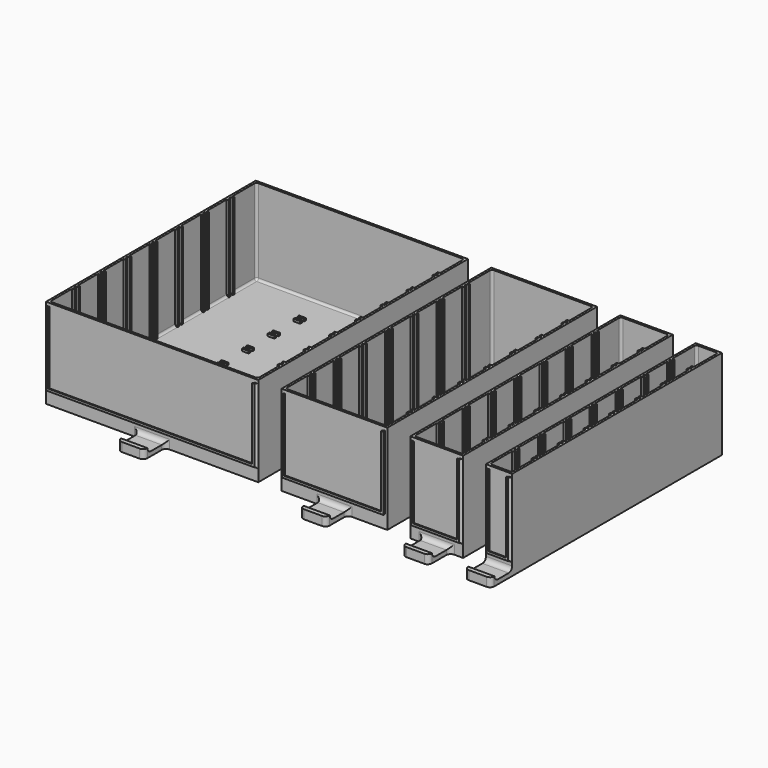
from build123d import *

# Parameters (mm, degrees)
BOX009_W         = 3
BOX009_H         = 3.2
BOX009_DEPTH     = 1
ARRAY001_X_COUNT = 2
ARRAY001_X_PITCH = 30.5
BOX008_W         = 91.5
BOX008_H         = 3.2
BOX008_DEPTH     = 38.5
BOX007_W         = 93.5
BOX007_H         = 1.2
BOX007_DEPTH     = 38.5
BOX006_W         = 93.5
BOX006_H         = 3.2
BOX006_DEPTH     = 38.5
FILLET005_R      = 1
ARRAY002_Y_COUNT = 7
ARRAY002_Y_PITCH = 14.5
BOX004_W         = 2
BOX004_H         = 110
BOX004_DEPTH     = 1
ARRAY_X_COUNT    = 8
ARRAY_X_PITCH    = 12
BOX001_W         = 93.5
BOX001_H         = 116
BOX001_DEPTH     = 39.5
FILLET_R         = 1
BOX_W            = 95.5
BOX_H            = 118
BOX_DEPTH        = 40.5
BOX013_W         = 11.8
BOX013_H         = 12
BOX013_DEPTH     = 2
BOX015_W         = 11.8
BOX015_H         = 2
BOX015_DEPTH     = 2
FILLET006_R      = 1.9
FILLET007_R      = 2
BOX012_W         = 91.5
BOX012_H         = 0.5
BOX012_DEPTH     = 32
BOX011_W         = 92.5
BOX011_H         = 0.5
BOX011_DEPTH     = 32.5
BOX010_W         = 93.5
BOX010_H         = 1
BOX010_DEPTH     = 33
FILLET008_R      = 0.9
BOX027_W         = 11.8
BOX027_H         = 2
BOX027_DEPTH     = 2
BOX026_W         = 11.8
BOX026_H         = 12
BOX026_DEPTH     = 2
FILLET011_R      = 1.9
BOX018_W         = 2
BOX018_H         = 110
BOX018_DEPTH     = 1
ARRAY003_X_COUNT = 4
ARRAY003_X_PITCH = 12
BOX017_W         = 45.6
BOX017_H         = 116
BOX017_DEPTH     = 39.5
FILLET009_R      = 1
BOX016_W         = 47.6
BOX016_H         = 118
BOX016_DEPTH     = 40.5
BOX022_W         = 3
BOX022_H         = 3.2
BOX022_DEPTH     = 1
BOX021_W         = 43.6
BOX021_H         = 3.2
BOX021_DEPTH     = 38.5
BOX020_W         = 45.6
BOX020_H         = 1.2
BOX020_DEPTH     = 38.5
BOX019_W         = 45.6
BOX019_H         = 3.2
BOX019_DEPTH     = 38.5
FILLET010_R      = 1
ARRAY004_Y_COUNT = 7
ARRAY004_Y_PITCH = 14.5
FILLET012_R      = 2
BOX025_W         = 43.6
BOX025_H         = 0.5
BOX025_DEPTH     = 32
BOX024_W         = 44.6
BOX024_H         = 0.5
BOX024_DEPTH     = 32.5
BOX023_W         = 45.6
BOX023_H         = 1
BOX023_DEPTH     = 33
BOX037_W         = 11.8
BOX037_H         = 12
BOX037_DEPTH     = 2
BOX014_W         = 11.8
BOX014_H         = 2
BOX014_DEPTH     = 2
FILLET016_R      = 1.9
BOX031_W         = 21.7
BOX031_H         = 1
BOX031_DEPTH     = 38.5
BOX033_W         = 19.7
BOX033_H         = 3
BOX033_DEPTH     = 38.5
BOX032_W         = 21.7
BOX032_H         = 3
BOX032_DEPTH     = 38.5
FILLET015_R      = 1
ARRAY006_Y_COUNT = 7
ARRAY006_Y_PITCH = 14.5
BOX030_W         = 2
BOX030_H         = 110
BOX030_DEPTH     = 1
ARRAY005_X_COUNT = 2
ARRAY005_X_PITCH = 12
BOX029_W         = 21.7
BOX029_H         = 116
BOX029_DEPTH     = 39.5
FILLET014_R      = 1
BOX028_W         = 23.7
BOX028_H         = 118
BOX028_DEPTH     = 40.5
FILLET017_R      = 2
BOX036_W         = 19.7
BOX036_H         = 0.5
BOX036_DEPTH     = 32
BOX035_W         = 20.7
BOX035_H         = 0.5
BOX035_DEPTH     = 32.5
BOX034_W         = 21.7
BOX034_H         = 1
BOX034_DEPTH     = 33
FILLET018_R      = 0.9
BOX043_W         = 7.8
BOX043_H         = 3
BOX043_DEPTH     = 38.5
BOX042_W         = 9.8
BOX042_H         = 1
BOX042_DEPTH     = 38.5
BOX041_W         = 9.8
BOX041_H         = 3
BOX041_DEPTH     = 38.5
FILLET020_R      = 1
ARRAY007_Y_COUNT = 7
ARRAY007_Y_PITCH = 14.5
BOX040_W         = 2
BOX040_H         = 110
BOX040_DEPTH     = 1
BOX039_W         = 9.8
BOX039_H         = 116
BOX039_DEPTH     = 38.5
FILLET019_R      = 1
BOX038_W         = 11.8
BOX038_H         = 118
BOX038_DEPTH     = 40.5
BOX047_W         = 11.8
BOX047_H         = 12
BOX047_DEPTH     = 2
BOX048_W         = 11.8
BOX048_H         = 2
BOX048_DEPTH     = 2
FILLET021_R      = 1.9
FILLET022_R      = 2
BOX046_W         = 7.8
BOX046_H         = 0.5
BOX046_DEPTH     = 32
BOX045_W         = 8.8
BOX045_H         = 0.5
BOX045_DEPTH     = 32.5
BOX044_W         = 9.8
BOX044_H         = 1
BOX044_DEPTH     = 33
FILLET023_R      = 0.9


with BuildPart() as bottom_separator_gap_array:
    # Box009 → Box009 (new body)
    with BuildSketch(Plane(origin=(31, 13.4, 2), x_dir=(1, 0, 0), z_dir=(0, 0, 1))):
        with Locations((1.5, 1.6)):
            Rectangle(BOX009_W, BOX009_H)
    extrude(amount=BOX009_DEPTH)

    # Array001 X: Bottom Separator Gap Array ×2


with BuildPart() as bottom_separator_gap_array_1:
    add(bottom_separator_gap_array.part)
    with Locations(*[(i * ARRAY001_X_PITCH, 0, 0) for i in range(1, ARRAY001_X_COUNT)]):
        add(bottom_separator_gap_array.part)


with BuildPart() as separator_holder_gap:
    # Box008 → Box008 (new body)
    with BuildSketch(Plane(origin=(2, 13.4, 2), x_dir=(1, 0, 0), z_dir=(0, 0, 1))):
        with Locations((45.75, 1.6)):
            Rectangle(BOX008_W, BOX008_H)
    extrude(amount=BOX008_DEPTH)

    # Cut005: cut Bottom Separator Gap Array
    add(bottom_separator_gap_array_1.part, mode=Mode.SUBTRACT)


with BuildPart() as separator_gap:
    # Box007 → Box007 (new body)
    with BuildSketch(Plane(origin=(1, 14.4, 2), x_dir=(1, 0, 0), z_dir=(0, 0, 1))):
        with Locations((46.75, 0.6)):
            Rectangle(BOX007_W, BOX007_H)
    extrude(amount=BOX007_DEPTH)


with BuildPart() as separator_holder_array:
    # Box006 → Box006 (new body)
    with BuildSketch(Plane(origin=(1, 13.4, 2), x_dir=(1, 0, 0), z_dir=(0, 0, 1))):
        with Locations((46.75, 1.6)):
            Rectangle(BOX006_W, BOX006_H)
    extrude(amount=BOX006_DEPTH)

    # Fillet005
    fillet005_edges = [separator_holder_array.edges().sort_by_distance(p)[0] for p in [
        (1, 15, 2),
        (94.5, 15, 2),
    ]]
    fillet(fillet005_edges, radius=FILLET005_R)

    # Cut002: cut Separator Gap
    add(separator_gap.part, mode=Mode.SUBTRACT)

    # Cut006: cut Separator Holder Gap
    add(separator_holder_gap.part, mode=Mode.SUBTRACT)

    # Array002 Y: Separator Holder Array ×7


with BuildPart() as separator_holder_array_1:
    add(separator_holder_array.part)
    with Locations(*[(0, i * ARRAY002_Y_PITCH, 0) for i in range(1, ARRAY002_Y_COUNT)]):
        add(separator_holder_array.part)


with BuildPart() as guide_array:
    # Box004 → Box004 (new body)
    with BuildSketch(Plane(origin=(0, 8, 0), x_dir=(1, 0, 0), z_dir=(0, 0, 1))):
        with Locations((1, 55)):
            Rectangle(BOX004_W, BOX004_H)
    extrude(amount=BOX004_DEPTH)

    # Array X: Guide array ×8


with BuildPart() as guide_array_1:
    add(guide_array.part)
    with Locations(*[(i * ARRAY_X_PITCH, 0, 0) for i in range(1, ARRAY_X_COUNT)]):
        add(guide_array.part)


with BuildPart() as guide_array_2:
    # Array placement: moved
    add(guide_array_1.part.moved(Location((4.75, 0, 0))))


with BuildPart() as fillet_body:
    # Box001 → Box001 (new body)
    with BuildSketch(Plane(origin=(1, 1, 2), x_dir=(1, 0, 0), z_dir=(0, 0, 1))):
        with Locations((46.75, 58)):
            Rectangle(BOX001_W, BOX001_H)
    extrude(amount=BOX001_DEPTH)

    # Fillet
    fillet_edges = [fillet_body.edges().sort_by_distance(p)[0] for p in [
        (1, 1, 21.75),
        (1, 117, 21.75),
        (1, 59, 2),
        (94.5, 1, 21.75),
        (94.5, 117, 21.75),
        (94.5, 59, 2),
        (47.75, 1, 2),
        (47.75, 117, 2),
    ]]
    fillet(fillet_edges, radius=FILLET_R)


with BuildPart() as obj1:
    # Box → Box (new body)
    with BuildSketch(Plane.XY):
        with Locations((47.75, 59)):
            Rectangle(BOX_W, BOX_H)
    extrude(amount=BOX_DEPTH)

    # Cut: cut Fillet body
    add(fillet_body.part, mode=Mode.SUBTRACT)

    # Cut004: cut Guide array
    add(guide_array_2.part, mode=Mode.SUBTRACT)

    # Fusion: union Separator Holder Array
    add(separator_holder_array_1.part)


with BuildPart() as handler_block:
    # Box013 → Box013 (new body)
    with BuildSketch(Plane(origin=(41.85, -12, 0), x_dir=(1, 0, 0), z_dir=(0, 0, 1))):
        with Locations((5.9, 6)):
            Rectangle(BOX013_W, BOX013_H)
    extrude(amount=BOX013_DEPTH)


with BuildPart() as obj2:
    # Box015 → Box015 (new body)
    with BuildSketch(Plane(origin=(41.85, -12, 2), x_dir=(1, 0, 0), z_dir=(0, 0, 1))):
        with Locations((5.9, 1)):
            Rectangle(BOX015_W, BOX015_H)
    extrude(amount=BOX015_DEPTH)

    # Fusion004: union Handler_block
    add(handler_block.part)

    # Fillet006
    fillet006_edges = [obj2.edges().sort_by_distance(p)[0] for p in [
        (41.85, -12, 3),
        (47.75, -10, 2),
        (53.65, -12, 3),
        (41.85, -12, 1),
        (53.65, -12, 1),
    ]]
    fillet(fillet006_edges, radius=FILLET006_R)

    # Fusion005: union obj1
    add(obj1.part)

    # Fillet007
    fillet007_edges = [obj2.edges().sort_by_distance(p)[0] for p in [
        (41.85, 0, 1),
        (53.65, 0, 1),
        (47.75, 0, 2),
    ]]
    fillet(fillet007_edges, radius=FILLET007_R)


with BuildPart() as labelholder_outer_gap:
    # Box012 → Box012 (new body)
    with BuildSketch(Plane(origin=(2, -1, 7), x_dir=(1, 0, 0), z_dir=(0, 0, 1))):
        with Locations((45.75, 0.25)):
            Rectangle(BOX012_W, BOX012_H)
    extrude(amount=BOX012_DEPTH)


with BuildPart() as labelholder_gap:
    # Box011 → Box011 (new body)
    with BuildSketch(Plane(origin=(1.5, -0.5, 6.5), x_dir=(1, 0, 0), z_dir=(0, 0, 1))):
        with Locations((46.25, 0.25)):
            Rectangle(BOX011_W, BOX011_H)
    extrude(amount=BOX011_DEPTH)

    # Fusion003: union LabelHolder_Outer_Gap
    add(labelholder_outer_gap.part)


with BuildPart() as bigdrawer:
    # Box010 → Box010 (new body)
    with BuildSketch(Plane(origin=(1, -1, 6), x_dir=(1, 0, 0), z_dir=(0, 0, 1))):
        with Locations((46.75, 0.5)):
            Rectangle(BOX010_W, BOX010_H)
    extrude(amount=BOX010_DEPTH)

    # Cut007: cut LabelHolder Gap
    add(labelholder_gap.part, mode=Mode.SUBTRACT)

    # Fusion006: union obj2
    add(obj2.part)

    # Fillet008
    fillet008_edges = [bigdrawer.edges().sort_by_distance(p)[0] for p in [
        (94.5, 0, 22.5),
        (1, 0, 22.5),
        (47.75, 0, 6),
    ]]
    fillet(fillet008_edges, radius=FILLET008_R)


with BuildPart() as handler_pick001:
    # Box027 → Box027 (new body)
    with BuildSketch(Plane(origin=(17.9, -12, 2), x_dir=(1, 0, 0), z_dir=(0, 0, 1))):
        with Locations((5.9, 1)):
            Rectangle(BOX027_W, BOX027_H)
    extrude(amount=BOX027_DEPTH)


with BuildPart() as fillet011:
    # Box026 → Box026 (new body)
    with BuildSketch(Plane(origin=(17.9, -12, 0), x_dir=(1, 0, 0), z_dir=(0, 0, 1))):
        with Locations((5.9, 6)):
            Rectangle(BOX026_W, BOX026_H)
    extrude(amount=BOX026_DEPTH)

    # Fusion009: union Handler_pick001
    add(handler_pick001.part)

    # Fillet011
    fillet011_edges = [fillet011.edges().sort_by_distance(p)[0] for p in [
        (17.9, -12, 1),
        (29.7, -12, 1),
        (17.9, -12, 3),
        (23.8, -10, 2),
        (29.7, -12, 3),
    ]]
    fillet(fillet011_edges, radius=FILLET011_R)


with BuildPart() as array003:
    # Box018 → Box018 (new body)
    with BuildSketch(Plane(origin=(4.8, 8, 0), x_dir=(1, 0, 0), z_dir=(0, 0, 1))):
        with Locations((1, 55)):
            Rectangle(BOX018_W, BOX018_H)
    extrude(amount=BOX018_DEPTH)

    # Array003 X: Array003 ×4


with BuildPart() as array003_1:
    add(array003.part)
    with Locations(*[(i * ARRAY003_X_PITCH, 0, 0) for i in range(1, ARRAY003_X_COUNT)]):
        add(array003.part)


with BuildPart() as fillet009:
    # Box017 → Box017 (new body)
    with BuildSketch(Plane(origin=(1, 1, 2), x_dir=(1, 0, 0), z_dir=(0, 0, 1))):
        with Locations((22.8, 58)):
            Rectangle(BOX017_W, BOX017_H)
    extrude(amount=BOX017_DEPTH)

    # Fillet009
    fillet009_edges = [fillet009.edges().sort_by_distance(p)[0] for p in [
        (1, 1, 21.75),
        (1, 117, 21.75),
        (1, 59, 2),
        (46.6, 1, 21.75),
        (46.6, 117, 21.75),
        (46.6, 59, 2),
        (23.8, 1, 2),
        (23.8, 117, 2),
    ]]
    fillet(fillet009_edges, radius=FILLET009_R)


with BuildPart() as obj3:
    # Box016 → Box016 (new body)
    with BuildSketch(Plane.XY):
        with Locations((23.8, 59)):
            Rectangle(BOX016_W, BOX016_H)
    extrude(amount=BOX016_DEPTH)

    # Cut008: cut Fillet009
    add(fillet009.part, mode=Mode.SUBTRACT)

    # Cut010: cut Array003
    add(array003_1.part, mode=Mode.SUBTRACT)


with BuildPart() as bottom_separator_holder_gap_block001:
    # Box022 → Box022 (new body)
    with BuildSketch(Plane(origin=(22.3, 13.4, 2), x_dir=(1, 0, 0), z_dir=(0, 0, 1))):
        with Locations((1.5, 1.6)):
            Rectangle(BOX022_W, BOX022_H)
    extrude(amount=BOX022_DEPTH)


with BuildPart() as separator_holder_gap001:
    # Box021 → Box021 (new body)
    with BuildSketch(Plane(origin=(2, 13.4, 2), x_dir=(1, 0, 0), z_dir=(0, 0, 1))):
        with Locations((21.8, 1.6)):
            Rectangle(BOX021_W, BOX021_H)
    extrude(amount=BOX021_DEPTH)

    # Cut011: cut Bottom Separator Holder Gap Block001
    add(bottom_separator_holder_gap_block001.part, mode=Mode.SUBTRACT)


with BuildPart() as separator_gap001:
    # Box020 → Box020 (new body)
    with BuildSketch(Plane(origin=(1, 14.4, 2), x_dir=(1, 0, 0), z_dir=(0, 0, 1))):
        with Locations((22.8, 0.6)):
            Rectangle(BOX020_W, BOX020_H)
    extrude(amount=BOX020_DEPTH)


with BuildPart() as fillet012:
    # Box019 → Box019 (new body)
    with BuildSketch(Plane(origin=(1, 13.4, 2), x_dir=(1, 0, 0), z_dir=(0, 0, 1))):
        with Locations((22.8, 1.6)):
            Rectangle(BOX019_W, BOX019_H)
    extrude(amount=BOX019_DEPTH)

    # Fillet010
    fillet010_edges = [fillet012.edges().sort_by_distance(p)[0] for p in [
        (1, 15, 2),
        (46.6, 15, 2),
    ]]
    fillet(fillet010_edges, radius=FILLET010_R)

    # Cut009: cut Separator Gap001
    add(separator_gap001.part, mode=Mode.SUBTRACT)

    # Cut012: cut Separator Holder Gap001
    add(separator_holder_gap001.part, mode=Mode.SUBTRACT)

    # Array004 Y: Fillet012 ×7


with BuildPart() as fillet012_1:
    add(fillet012.part)
    with Locations(*[(0, i * ARRAY004_Y_PITCH, 0) for i in range(1, ARRAY004_Y_COUNT)]):
        add(fillet012.part)

    # Fusion008: union obj3
    add(obj3.part)

    # Fusion010: union Fillet011
    add(fillet011.part)

    # Fillet012
    fillet012_edges = [fillet012_1.edges().sort_by_distance(p)[0] for p in [
        (17.9, 0, 1),
        (23.8, 0, 2),
        (29.7, 0, 1),
    ]]
    fillet(fillet012_edges, radius=FILLET012_R)


with BuildPart() as labelholder_outer_gap001:
    # Box025 → Box025 (new body)
    with BuildSketch(Plane(origin=(2, -1, 7), x_dir=(1, 0, 0), z_dir=(0, 0, 1))):
        with Locations((21.8, 0.25)):
            Rectangle(BOX025_W, BOX025_H)
    extrude(amount=BOX025_DEPTH)


with BuildPart() as fusion007:
    # Box024 → Box024 (new body)
    with BuildSketch(Plane(origin=(1.5, -0.5, 6.5), x_dir=(1, 0, 0), z_dir=(0, 0, 1))):
        with Locations((22.3, 0.25)):
            Rectangle(BOX024_W, BOX024_H)
    extrude(amount=BOX024_DEPTH)

    # Fusion007: union LabelHolder_Outer_Gap001
    add(labelholder_outer_gap001.part)


with BuildPart() as standarddrawer:
    # Box023 → Box023 (new body)
    with BuildSketch(Plane(origin=(1, -1, 6), x_dir=(1, 0, 0), z_dir=(0, 0, 1))):
        with Locations((22.8, 0.5)):
            Rectangle(BOX023_W, BOX023_H)
    extrude(amount=BOX023_DEPTH)

    # Cut013: cut Fusion007
    add(fusion007.part, mode=Mode.SUBTRACT)

    # Fusion011: union Fillet012
    add(fillet012_1.part)


with BuildPart() as standarddrawer_1:
    # Fusion011 placement: moved
    add(standarddrawer.part.moved(Location((106, 0, 0))))


with BuildPart() as handler_block002:
    # Box037 → Box037 (new body)
    with BuildSketch(Plane(origin=(5.95, -12, 0), x_dir=(1, 0, 0), z_dir=(0, 0, 1))):
        with Locations((5.9, 6)):
            Rectangle(BOX037_W, BOX037_H)
    extrude(amount=BOX037_DEPTH)


with BuildPart() as handler:
    # Box014 → Box014 (new body)
    with BuildSketch(Plane(origin=(5.95, -12, 2), x_dir=(1, 0, 0), z_dir=(0, 0, 1))):
        with Locations((5.9, 1)):
            Rectangle(BOX014_W, BOX014_H)
    extrude(amount=BOX014_DEPTH)

    # Fusion014: union Handler_block002
    add(handler_block002.part)

    # Fillet016
    fillet016_edges = [handler.edges().sort_by_distance(p)[0] for p in [
        (5.95, -12, 3),
        (11.85, -10, 2),
        (17.75, -12, 3),
        (5.95, -12, 1),
        (17.75, -12, 1),
    ]]
    fillet(fillet016_edges, radius=FILLET016_R)


with BuildPart() as separator_holder_gap002:
    # Box031 → Box031 (new body)
    with BuildSketch(Plane(origin=(1, 14.5, 2), x_dir=(1, 0, 0), z_dir=(0, 0, 1))):
        with Locations((10.85, 0.5)):
            Rectangle(BOX031_W, BOX031_H)
    extrude(amount=BOX031_DEPTH)


with BuildPart() as separator_gap002:
    # Box033 → Box033 (new body)
    with BuildSketch(Plane(origin=(2, 13.5, 2), x_dir=(1, 0, 0), z_dir=(0, 0, 1))):
        with Locations((9.85, 1.5)):
            Rectangle(BOX033_W, BOX033_H)
    extrude(amount=BOX033_DEPTH)


with BuildPart() as separator_holders_array:
    # Box032 → Box032 (new body)
    with BuildSketch(Plane(origin=(1, 13.5, 2), x_dir=(1, 0, 0), z_dir=(0, 0, 1))):
        with Locations((10.85, 1.5)):
            Rectangle(BOX032_W, BOX032_H)
    extrude(amount=BOX032_DEPTH)

    # Fillet015
    fillet015_edges = [separator_holders_array.edges().sort_by_distance(p)[0] for p in [
        (1, 15, 2),
        (22.7, 15, 2),
    ]]
    fillet(fillet015_edges, radius=FILLET015_R)

    # Cut015: cut Separator Gap002
    add(separator_gap002.part, mode=Mode.SUBTRACT)

    # Cut003: cut Separator Holder Gap002
    add(separator_holder_gap002.part, mode=Mode.SUBTRACT)

    # Array006 Y: Separator Holders Array ×7


with BuildPart() as separator_holders_array_1:
    add(separator_holders_array.part)
    with Locations(*[(0, i * ARRAY006_Y_PITCH, 0) for i in range(1, ARRAY006_Y_COUNT)]):
        add(separator_holders_array.part)


with BuildPart() as guide_array001:
    # Box030 → Box030 (new body)
    with BuildSketch(Plane(origin=(0, 8, 0), x_dir=(1, 0, 0), z_dir=(0, 0, 1))):
        with Locations((1, 55)):
            Rectangle(BOX030_W, BOX030_H)
    extrude(amount=BOX030_DEPTH)

    # Array005 X: Guide array001 ×2


with BuildPart() as guide_array001_1:
    add(guide_array001.part)
    with Locations(*[(i * ARRAY005_X_PITCH, 0, 0) for i in range(1, ARRAY005_X_COUNT)]):
        add(guide_array001.part)


with BuildPart() as guide_array001_2:
    # Array005 placement: moved
    add(guide_array001_1.part.moved(Location((4.85, 0, 0))))


with BuildPart() as filleted_inner_box:
    # Box029 → Box029 (new body)
    with BuildSketch(Plane(origin=(1, 1, 2), x_dir=(1, 0, 0), z_dir=(0, 0, 1))):
        with Locations((10.85, 58)):
            Rectangle(BOX029_W, BOX029_H)
    extrude(amount=BOX029_DEPTH)

    # Fillet014
    fillet014_edges = [filleted_inner_box.edges().sort_by_distance(p)[0] for p in [
        (1, 1, 21.75),
        (1, 117, 21.75),
        (1, 59, 2),
        (22.7, 1, 21.75),
        (22.7, 117, 21.75),
        (22.7, 59, 2),
        (11.85, 1, 2),
        (11.85, 117, 2),
    ]]
    fillet(fillet014_edges, radius=FILLET014_R)


with BuildPart() as obj4:
    # Box028 → Box028 (new body)
    with BuildSketch(Plane.XY):
        with Locations((11.85, 59)):
            Rectangle(BOX028_W, BOX028_H)
    extrude(amount=BOX028_DEPTH)

    # Cut014: cut Filleted Inner Box
    add(filleted_inner_box.part, mode=Mode.SUBTRACT)

    # Cut016: cut Guide array001
    add(guide_array001_2.part, mode=Mode.SUBTRACT)

    # Fusion013: union Separator Holders Array
    add(separator_holders_array_1.part)

    # Fusion015: union Handler
    add(handler.part)

    # Fillet017
    fillet017_edges = [obj4.edges().sort_by_distance(p)[0] for p in [
        (5.95, 0, 1),
        (11.85, 0, 2),
        (17.75, 0, 1),
    ]]
    fillet(fillet017_edges, radius=FILLET017_R)


with BuildPart() as labelholder_outer_gap002:
    # Box036 → Box036 (new body)
    with BuildSketch(Plane(origin=(2, -1, 7), x_dir=(1, 0, 0), z_dir=(0, 0, 1))):
        with Locations((9.85, 0.25)):
            Rectangle(BOX036_W, BOX036_H)
    extrude(amount=BOX036_DEPTH)


with BuildPart() as labelholder_gap001:
    # Box035 → Box035 (new body)
    with BuildSketch(Plane(origin=(1.5, -0.5, 6.5), x_dir=(1, 0, 0), z_dir=(0, 0, 1))):
        with Locations((10.35, 0.25)):
            Rectangle(BOX035_W, BOX035_H)
    extrude(amount=BOX035_DEPTH)

    # Fusion012: union LabelHolder_Outer_Gap002
    add(labelholder_outer_gap002.part)


with BuildPart() as smalldrawer:
    # Box034 → Box034 (new body)
    with BuildSketch(Plane(origin=(1, -1, 6), x_dir=(1, 0, 0), z_dir=(0, 0, 1))):
        with Locations((10.85, 0.5)):
            Rectangle(BOX034_W, BOX034_H)
    extrude(amount=BOX034_DEPTH)

    # Cut017: cut LabelHolder_Gap001
    add(labelholder_gap001.part, mode=Mode.SUBTRACT)

    # Fusion016: union obj4
    add(obj4.part)

    # Fillet018
    fillet018_edges = [smalldrawer.edges().sort_by_distance(p)[0] for p in [
        (22.7, 0, 22.5),
        (1, 0, 22.5),
        (11.85, 0, 6),
    ]]
    fillet(fillet018_edges, radius=FILLET018_R)


with BuildPart() as smalldrawer_1:
    # Fillet018 placement: moved
    add(smalldrawer.part.moved(Location((164, 0, 0))))


with BuildPart() as separator_holder_gap003:
    # Box043 → Box043 (new body)
    with BuildSketch(Plane(origin=(1, 0, 0), x_dir=(1, 0, 0), z_dir=(0, 0, 1))):
        with Locations((3.9, 1.5)):
            Rectangle(BOX043_W, BOX043_H)
    extrude(amount=BOX043_DEPTH)


with BuildPart() as separator_gap003:
    # Box042 → Box042 (new body)
    with BuildSketch(Plane(origin=(0, 1, 0), x_dir=(1, 0, 0), z_dir=(0, 0, 1))):
        with Locations((4.9, 0.5)):
            Rectangle(BOX042_W, BOX042_H)
    extrude(amount=BOX042_DEPTH)


with BuildPart() as separator_holder_array002:
    # Box041 → Box041 (new body)
    with BuildSketch(Plane.XY):
        with Locations((4.9, 1.5)):
            Rectangle(BOX041_W, BOX041_H)
    extrude(amount=BOX041_DEPTH)

    # Fillet020
    fillet020_edges = [separator_holder_array002.edges().sort_by_distance(p)[0] for p in [
        (0, 1.5, 0),
        (9.8, 1.5, 0),
    ]]
    fillet(fillet020_edges, radius=FILLET020_R)

    # Cut019: cut Separator Gap003
    add(separator_gap003.part, mode=Mode.SUBTRACT)

    # Cut020: cut Separator Holder Gap003
    add(separator_holder_gap003.part, mode=Mode.SUBTRACT)

    # Array007 Y: Separator Holder Array002 ×7


with BuildPart() as separator_holder_array002_1:
    add(separator_holder_array002.part)
    with Locations(*[(0, i * ARRAY007_Y_PITCH, 0) for i in range(1, ARRAY007_Y_COUNT)]):
        add(separator_holder_array002.part)


with BuildPart() as separator_holder_array002_2:
    # Array007 placement: moved
    add(separator_holder_array002_1.part.moved(Location((1, 13.5, 2))))


with BuildPart() as guide003:
    # Box040 → Box040 (new body)
    with BuildSketch(Plane(origin=(4.9, 8, 0), x_dir=(1, 0, 0), z_dir=(0, 0, 1))):
        with Locations((1, 55)):
            Rectangle(BOX040_W, BOX040_H)
    extrude(amount=BOX040_DEPTH)


with BuildPart() as fillet019:
    # Box039 → Box039 (new body)
    with BuildSketch(Plane(origin=(1, 1, 2), x_dir=(1, 0, 0), z_dir=(0, 0, 1))):
        with Locations((4.9, 58)):
            Rectangle(BOX039_W, BOX039_H)
    extrude(amount=BOX039_DEPTH)

    # Fillet019
    fillet019_edges = [fillet019.edges().sort_by_distance(p)[0] for p in [
        (1, 1, 21.25),
        (1, 117, 21.25),
        (1, 59, 2),
        (10.8, 1, 21.25),
        (10.8, 117, 21.25),
        (10.8, 59, 2),
        (5.9, 1, 2),
        (5.9, 117, 2),
    ]]
    fillet(fillet019_edges, radius=FILLET019_R)


with BuildPart() as obj5:
    # Box038 → Box038 (new body)
    with BuildSketch(Plane.XY):
        with Locations((5.9, 59)):
            Rectangle(BOX038_W, BOX038_H)
    extrude(amount=BOX038_DEPTH)

    # Cut018: cut Fillet019
    add(fillet019.part, mode=Mode.SUBTRACT)

    # Cut021: cut Guide003
    add(guide003.part, mode=Mode.SUBTRACT)

    # Fusion017: union Separator Holder Array002
    add(separator_holder_array002_2.part)


with BuildPart() as handlerblock:
    # Box047 → Box047 (new body)
    with BuildSketch(Plane(origin=(0, -12, 0), x_dir=(1, 0, 0), z_dir=(0, 0, 1))):
        with Locations((5.9, 6)):
            Rectangle(BOX047_W, BOX047_H)
    extrude(amount=BOX047_DEPTH)


with BuildPart() as fillet022:
    # Box048 → Box048 (new body)
    with BuildSketch(Plane(origin=(0, -12, 2), x_dir=(1, 0, 0), z_dir=(0, 0, 1))):
        with Locations((5.9, 1)):
            Rectangle(BOX048_W, BOX048_H)
    extrude(amount=BOX048_DEPTH)

    # Fusion001: union HandlerBlock
    add(handlerblock.part)

    # Fillet021
    fillet021_edges = [fillet022.edges().sort_by_distance(p)[0] for p in [
        (0, -12, 3),
        (5.9, -10, 2),
        (11.8, -12, 3),
        (0, -12, 1),
        (11.8, -12, 1),
    ]]
    fillet(fillet021_edges, radius=FILLET021_R)

    # Fusion002: union obj5
    add(obj5.part)

    # Fillet022
    fillet022_edges = [fillet022.edges().sort_by_distance(p)[0] for p in [
        (5.9, 0, 2),
    ]]
    fillet(fillet022_edges, radius=FILLET022_R)


with BuildPart() as box046:
    # Box046 → Box046 (new body)
    with BuildSketch(Plane(origin=(2, -1, 7), x_dir=(1, 0, 0), z_dir=(0, 0, 1))):
        with Locations((3.9, 0.25)):
            Rectangle(BOX046_W, BOX046_H)
    extrude(amount=BOX046_DEPTH)


with BuildPart() as labelholder_inner_gap:
    # Box045 → Box045 (new body)
    with BuildSketch(Plane(origin=(1.5, -0.5, 6.5), x_dir=(1, 0, 0), z_dir=(0, 0, 1))):
        with Locations((4.4, 0.25)):
            Rectangle(BOX045_W, BOX045_H)
    extrude(amount=BOX045_DEPTH)


with BuildPart() as tinydrawer:
    # Box044 → Box044 (new body)
    with BuildSketch(Plane(origin=(1, -1, 6), x_dir=(1, 0, 0), z_dir=(0, 0, 1))):
        with Locations((4.9, 0.5)):
            Rectangle(BOX044_W, BOX044_H)
    extrude(amount=BOX044_DEPTH)

    # Cut022: cut labelholder_inner_gap
    add(labelholder_inner_gap.part, mode=Mode.SUBTRACT)

    # Cut023: cut Box046
    add(box046.part, mode=Mode.SUBTRACT)

    # Fusion018: union Fillet022
    add(fillet022.part)

    # Fillet023
    fillet023_edges = [tinydrawer.edges().sort_by_distance(p)[0] for p in [
        (10.8, 0, 22.5),
        (1, 0, 22.5),
        (5.9, 0, 6),
    ]]
    fillet(fillet023_edges, radius=FILLET023_R)


with BuildPart() as tinydrawer_1:
    # Fillet023 placement: moved
    add(tinydrawer.part.moved(Location((198, 0, 0))))


solid = Compound([bigdrawer.part, standarddrawer_1.part, smalldrawer_1.part, tinydrawer_1.part])
